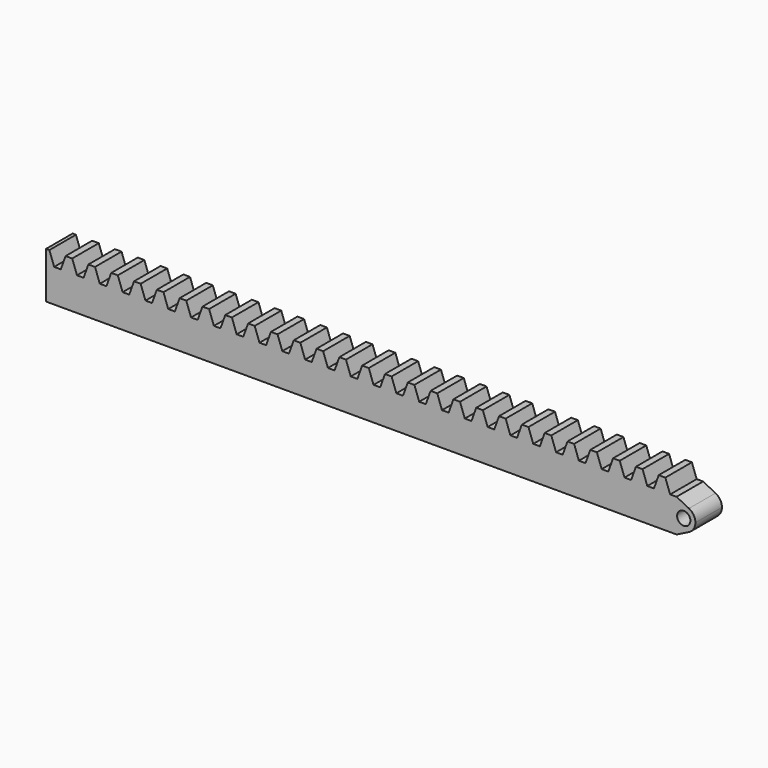
from build123d import *

# Parameters (mm, degrees)
F1_DEPTH = 5
F3_DEPTH = 25
F4_R     = 1
F5_DEPTH = 5


with BuildPart() as f1:
    # F0 (on Front) → F1 (new body)
    with BuildSketch(Plane.XZ):
        Polygon((-54.360465, 2), (-54.360465, 0), (-53.141715, 0), (-53.860465, 2), align=None)
        Polygon((-53.141715, 0), (-54.360465, 0), (-54.360465, -5), (55.639535, -5), (55.639535, 0), (54.420785, 0), (53.920785, 0), (53.420785, 0), (50.983285, 0), (50.483285, 0), (49.983285, 0), (47.545785, 0), (47.045785, 0), (46.545785, 0), (44.108285, 0), (43.608285, 0), (43.108285, 0), (40.670785, 0), (40.170785, 0), (39.670785, 0), (37.233285, 0), (36.733285, 0), (36.233285, 0), (33.795785, 0), (33.295785, 0), (32.795785, 0), (30.358285, 0), (29.858285, 0), (29.358285, 0), (26.920785, 0), (26.420785, 0), (25.920785, 0), (23.483285, 0), (22.983285, 0), (22.483285, 0), (20.045785, 0), (19.545785, 0), (19.045785, 0), (16.608285, 0), (16.108285, 0), (15.608285, 0), (13.170785, 0), (12.670785, 0), (12.170785, 0), (9.733285, 0), (9.233285, 0), (8.733285, 0), (6.295785, 0), (5.795785, 0), (5.295785, 0), (2.858285, 0), (2.358285, 0), (1.858285, 0), (-0.579215, 0), (-1.079215, 0), (-1.579215, 0), (-4.016715, 0), (-4.516715, 0), (-5.016715, 0), (-7.454215, 0), (-7.954215, 0), (-8.454215, 0), (-10.891715, 0), (-11.391715, 0), (-11.891715, 0), (-14.329215, 0), (-14.829215, 0), (-15.329215, 0), (-17.766715, 0), (-18.266715, 0), (-18.766715, 0), (-21.204215, 0), (-21.704215, 0), (-22.204215, 0), (-24.641715, 0), (-25.141715, 0), (-25.641715, 0), (-28.079215, 0), (-28.579215, 0), (-29.079215, 0), (-31.516715, 0), (-32.016715, 0), (-32.516715, 0), (-34.954215, 0), (-35.454215, 0), (-35.954215, 0), (-38.391715, 0), (-38.891715, 0), (-39.391715, 0), (-41.829215, 0), (-42.329215, 0), (-42.829215, 0), (-45.266715, 0), (-45.766715, 0), (-46.266715, 0), (-48.704215, 0), (-49.204215, 0), (-49.704215, 0), (-52.141715, 0), (-52.641715, 0), align=None)
        Polygon((-51.422965, 2), (-52.141715, 0), (-49.704215, 0), (-50.422965, 2), (-50.922965, 2), align=None)
        Polygon((54.420785, 0), (55.639535, 0), (55.639535, 2), (55.139535, 2), align=None)
        Polygon((-47.985465, 2), (-48.704215, 0), (-46.266715, 0), (-46.985465, 2), (-47.485465, 2), align=None)
        Polygon((50.983285, 0), (53.420785, 0), (52.702035, 2), (52.202035, 2), (51.702035, 2), align=None)
        Polygon((-44.547965, 2), (-45.266715, 0), (-42.829215, 0), (-43.547965, 2), (-44.047965, 2), align=None)
        Polygon((47.545785, 0), (49.983285, 0), (49.264535, 2), (48.764535, 2), (48.264535, 2), align=None)
        Polygon((-41.110465, 2), (-41.829215, 0), (-39.391715, 0), (-40.110465, 2), (-40.610465, 2), align=None)
        Polygon((44.108285, 0), (46.545785, 0), (45.827035, 2), (45.327035, 2), (44.827035, 2), align=None)
        Polygon((-37.672965, 2), (-38.391715, 0), (-35.954215, 0), (-36.672965, 2), (-37.172965, 2), align=None)
        Polygon((40.670785, 0), (43.108285, 0), (42.389535, 2), (41.889535, 2), (41.389535, 2), align=None)
        Polygon((-34.235465, 2), (-34.954215, 0), (-32.516715, 0), (-33.235465, 2), (-33.735465, 2), align=None)
        Polygon((37.233285, 0), (39.670785, 0), (38.952035, 2), (38.452035, 2), (37.952035, 2), align=None)
        Polygon((-30.797965, 2), (-31.516715, 0), (-29.079215, 0), (-29.797965, 2), (-30.297965, 2), align=None)
        Polygon((33.795785, 0), (36.233285, 0), (35.514535, 2), (35.014535, 2), (34.514535, 2), align=None)
        Polygon((-27.360465, 2), (-28.079215, 0), (-25.641715, 0), (-26.360465, 2), (-26.860465, 2), align=None)
        Polygon((30.358285, 0), (32.795785, 0), (32.077035, 2), (31.577035, 2), (31.077035, 2), align=None)
        Polygon((-23.922965, 2), (-24.641715, 0), (-22.204215, 0), (-22.922965, 2), (-23.422965, 2), align=None)
        Polygon((26.920785, 0), (29.358285, 0), (28.639535, 2), (28.139535, 2), (27.639535, 2), align=None)
        Polygon((-20.485465, 2), (-21.204215, 0), (-18.766715, 0), (-19.485465, 2), (-19.985465, 2), align=None)
        Polygon((23.483285, 0), (25.920785, 0), (25.202035, 2), (24.702035, 2), (24.202035, 2), align=None)
        Polygon((-17.047965, 2), (-17.766715, 0), (-15.329215, 0), (-16.047965, 2), (-16.547965, 2), align=None)
        Polygon((20.045785, 0), (22.483285, 0), (21.764535, 2), (21.264535, 2), (20.764535, 2), align=None)
        Polygon((-13.610465, 2), (-14.329215, 0), (-11.891715, 0), (-12.610465, 2), (-13.110465, 2), align=None)
        Polygon((16.608285, 0), (19.045785, 0), (18.327035, 2), (17.827035, 2), (17.327035, 2), align=None)
        Polygon((-10.172965, 2), (-10.891715, 0), (-8.454215, 0), (-9.172965, 2), (-9.672965, 2), align=None)
        Polygon((13.170785, 0), (15.608285, 0), (14.889535, 2), (14.389535, 2), (13.889535, 2), align=None)
        Polygon((-6.735465, 2), (-7.454215, 0), (-5.016715, 0), (-5.735465, 2), (-6.235465, 2), align=None)
        Polygon((9.733285, 0), (12.170785, 0), (11.452035, 2), (10.952035, 2), (10.452035, 2), align=None)
        Polygon((-3.297965, 2), (-4.016715, 0), (-1.579215, 0), (-2.297965, 2), (-2.797965, 2), align=None)
        Polygon((6.295785, 0), (8.733285, 0), (8.014535, 2), (7.514535, 2), (7.014535, 2), align=None)
        Polygon((0.139535, 2), (-0.579215, 0), (1.858285, 0), (1.139535, 2), (0.639535, 2), align=None)
        Polygon((2.858285, 0), (5.295785, 0), (4.577035, 2), (4.077035, 2), (3.577035, 2), align=None)
    extrude(amount=F1_DEPTH)

    # F2 (on face) → F3 (cut)
    with BuildSketch(Plane.XZ.offset(5)):
        Polygon((40.639535, 9.693892), (40.639535, -5), (40.639535, -8.513346), (59.679061, -8.513346), (59.679061, 9.693892), align=None)
    extrude(amount=-F3_DEPTH, mode=Mode.SUBTRACT)

    # F4 (on face) → F5 (join, through all)
    with BuildSketch(Plane.XZ.offset(5)):
        with BuildLine():
            Line((40.639535, 0), (40.639535, -5))
            Line((40.639535, -5), (42.509039, -4.065248))
            ThreePointArc((42.509039, -4.065248), (43.215055, -3.420029), (43.476416, -2.5))
            ThreePointArc((43.476416, -2.5), (43.215055, -1.579971), (42.509039, -0.934752))
            Line((42.509039, -0.934752), (40.639535, 0))
        make_face()
        with Locations((41.726416, -2.5)):
            Circle(F4_R, mode=Mode.SUBTRACT)
    extrude(amount=-F5_DEPTH)


solid = f1.part
